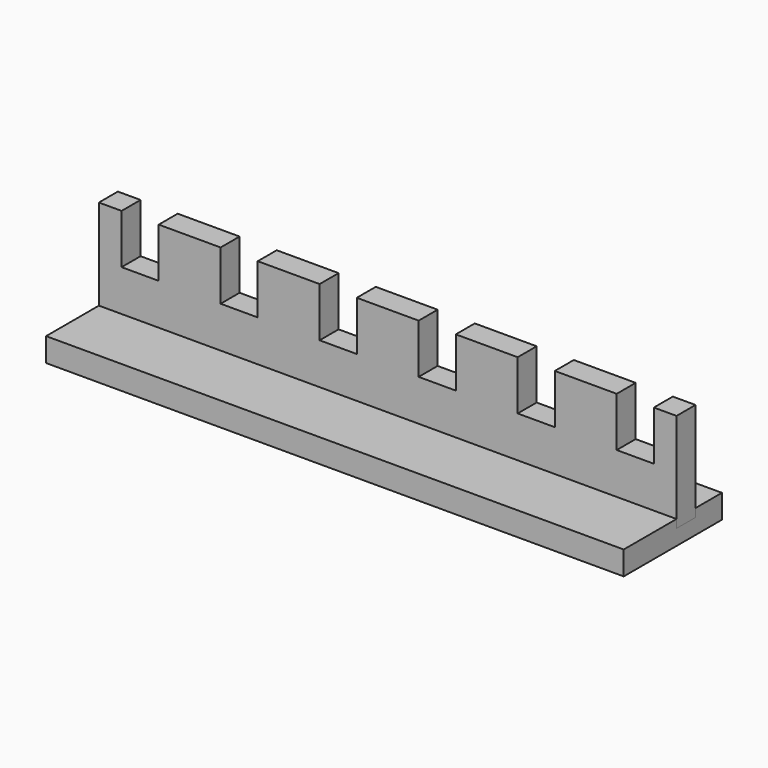
from build123d import *

# Parameters (mm, degrees)
F1_DEPTH = 18.25625
F3_DEPTH = 444.5


with BuildPart() as f1:
    # F0 (on Front) → F1 (new body)
    with BuildSketch(Plane.XZ):
        Polygon((-204.7875, 38.1), (-222.25, 38.1), (-222.25, -38.1), (222.25, -38.1), (222.25, 38.1), (204.7875, 38.1), (204.7875, 0), (176.2125, 0), (176.2125, 38.1), (128.5875, 38.1), (128.5875, 0), (100.0125, 0), (100.0125, 38.1), (52.3875, 38.1), (52.3875, 0), (23.8125, 0), (23.8125, 38.1), (-23.8125, 38.1), (-23.8125, 0), (-52.3875, 0), (-52.3875, 38.1), (-100.0125, 38.1), (-100.0125, 0), (-128.5875, 0), (-128.5875, 38.1), (-176.2125, 38.1), (-176.2125, 0), (-204.7875, 0), align=None)
    extrude(amount=F1_DEPTH)


with BuildPart() as f3:
    # F2 (on face) → F3 (new body, through all)
    with BuildSketch(Plane.YZ.offset(222.25)):
        Polygon((25.4, -31.75), (0, -31.75), (0, -38.1), (-18.25625, -38.1), (-18.25625, -31.75), (-69.05625, -31.75), (-69.05625, -50.00625), (25.4, -50.00625), align=None)
    extrude(amount=-F3_DEPTH)


solid = Compound([f1.part, f3.part])
